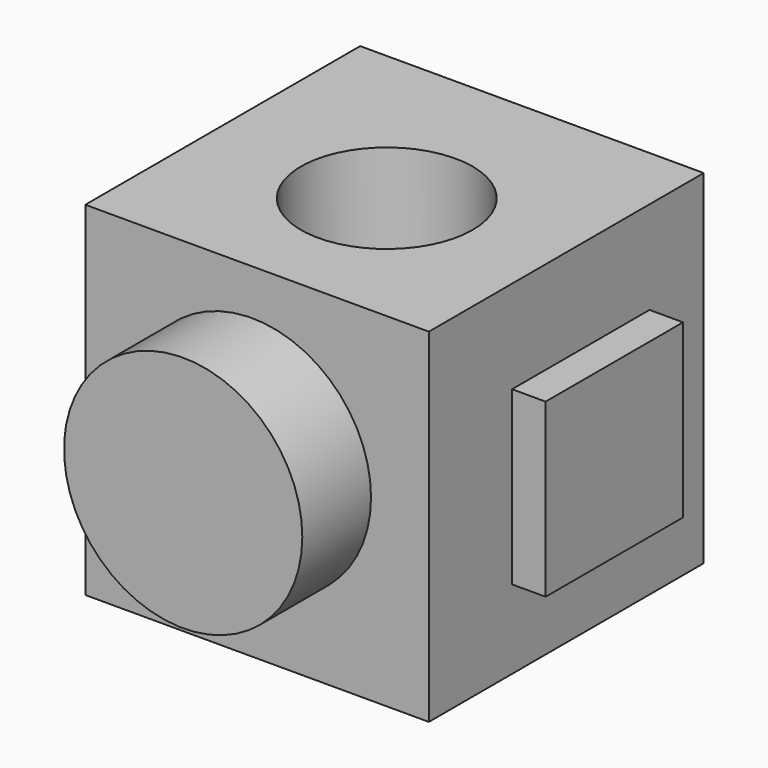
from build123d import *

# Parameters (mm, degrees)
F0_W     = 50.8
F0_H     = 50.8
F1_DEPTH = 50.8
F2_R     = 12.7
F3_DEPTH = 50.8
F4_W     = 25.4
F4_H     = 25.4
F5_DEPTH = 12.7
F6_R     = 17.614726
F7_DEPTH = 12.7


with BuildPart() as f1:
    # F0 (on Front) → F1 (new body)
    with BuildSketch(Plane.XZ):
        with Locations((-17.660277, -1.05328)):
            Rectangle(F0_W, F0_H)
    extrude(amount=F1_DEPTH)

    # F2 (on face) → F3 (cut)
    with BuildSketch(Plane.XY.offset(24.34672)):
        with Locations((-16.899487, -27.783902)):
            Circle(F2_R)
    extrude(amount=-F3_DEPTH, mode=Mode.SUBTRACT)

    # F4 (on Right) → F5 (join)
    with BuildSketch(Plane.YZ):
        with Locations((-22.722087, -2.098986)):
            Rectangle(F4_W, F4_H)
    extrude(amount=F5_DEPTH)

    # F6 (on face) → F7 (join)
    with BuildSketch(Plane.XZ.offset(50.8)):
        with Locations((-18.427124, 0)):
            Circle(F6_R)
    extrude(amount=F7_DEPTH)


solid = f1.part
